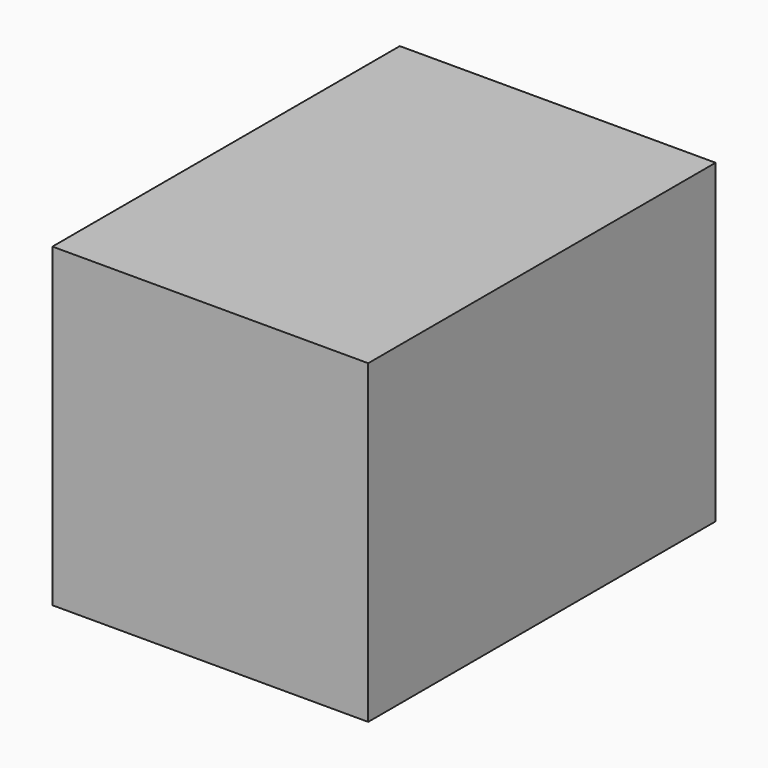
from build123d import *

# Parameters (mm, degrees)
F0_W     = 203.2
F0_H     = 254
F1_DEPTH = 203.2
F2_T     = -12.7
F3_W     = 101.6
F3_H     = 203.2
F4_DEPTH = 25.4


with BuildPart() as f1:
    # F0 (on Top) → F1 (new body)
    with BuildSketch(Plane.XY):
        with Locations((-25.257506, 12.597671)):
            Rectangle(F0_W, F0_H)
    extrude(amount=F1_DEPTH)

    # F2
    f2_openings = [f1.faces().sort_by_distance(p)[0] for p in [
        (-25.257506, -114.402329, 101.6),
    ]]
    offset(amount=F2_T, openings=f2_openings)

    # F3 (on face) → F4 (join)
    with BuildSketch(Plane.XZ.offset(114.402329)):
        with Locations((-76.057506, 101.6)):
            Rectangle(F3_W, F3_H)
        with Locations((25.542494, 101.6)):
            Rectangle(F3_W, F3_H)
    extrude(amount=F4_DEPTH)


solid = f1.part
